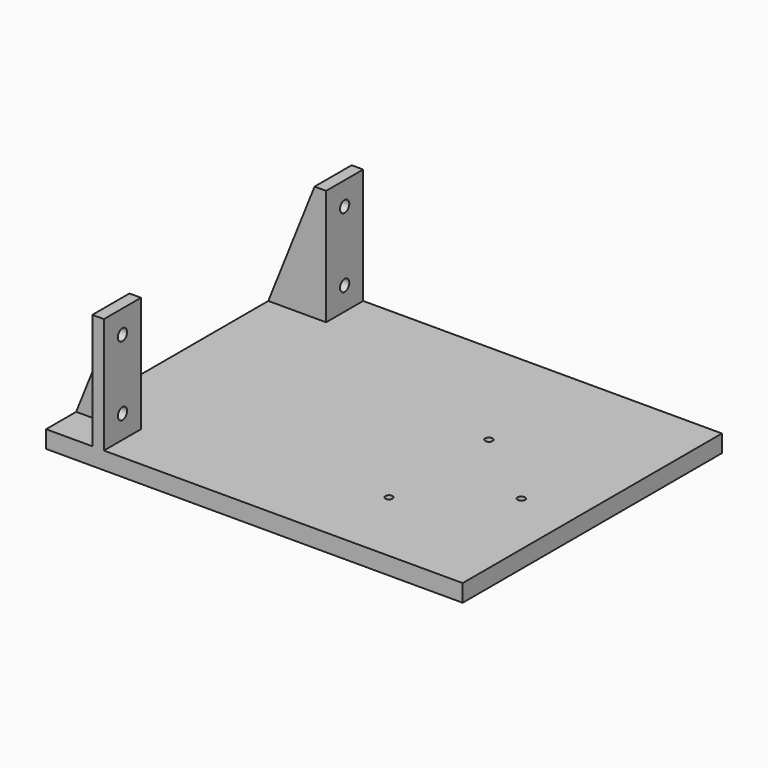
from build123d import *

# Parameters (mm, degrees)
SKETCH018_W          = 457.2
SKETCH018_H          = 355.6
PAD008_DEPTH         = 19.05
PAD009_DEPTH         = 127
POCKET010_DEPTH      = 177.801
POCKET010_DEPTH_BACK = -177.801
SKETCH021_R          = 6.35
POCKET009_DEPTH      = 63.501
SKETCH095_R          = 4
POCKET_DEPTH         = 19.051
POCKET_DEPTH_BACK    = -127.001


with BuildPart() as part:
    # Sketch018 → Pad008 (new body)
    with BuildSketch(Plane.XY):
        with Locations((165.1, 0)):
            Rectangle(SKETCH018_W, SKETCH018_H)
    extrude(amount=-PAD008_DEPTH)

    # Sketch019 → Pad009 (join)
    with BuildSketch(Plane.XY):
        Polygon((0, -127), (0, -177.8), (-12.7, -177.8), (-12.7, -136.525), (-63.5, -136.525), (-63.5, -127), align=None)
        Polygon((-12.7, 136.525), (-63.5, 136.525), (-63.5, 127), (0, 127), (0, 177.8), (-12.7, 177.8), align=None)
    extrude(amount=PAD009_DEPTH)

    # Sketch020 → Pocket010 (cut, two sides)
    with BuildSketch(Plane.XZ) as pocket010_sk:
        Polygon((-63.5, 0), (-12.7, 127), (-63.5, 127), align=None)
    extrude(amount=-POCKET010_DEPTH, mode=Mode.SUBTRACT)
    extrude(pocket010_sk.sketch, amount=-POCKET010_DEPTH_BACK, mode=Mode.SUBTRACT)

    # Sketch021 → Pocket009 (cut, through all)
    with BuildSketch(Plane.YZ):
        with Locations((-152.4, 101.6)):
            Circle(SKETCH021_R)
        with Locations((-152.4, 25.4)):
            Circle(SKETCH021_R)
        with Locations((152.4, 101.6)):
            Circle(SKETCH021_R)
        with Locations((152.4, 25.4)):
            Circle(SKETCH021_R)
    extrude(amount=-POCKET009_DEPTH, mode=Mode.SUBTRACT)

    # Sketch095 → Pocket (cut, two sides)
    with BuildSketch(Plane.XY) as pocket_sk:
        with Locations((245, 44)):
            Circle(SKETCH095_R)
        with Locations((335, -24)):
            Circle(SKETCH095_R)
        with Locations((245, -93)):
            Circle(SKETCH095_R)
    extrude(amount=-POCKET_DEPTH, mode=Mode.SUBTRACT)
    extrude(pocket_sk.sketch, amount=-POCKET_DEPTH_BACK, mode=Mode.SUBTRACT)


solid = part.part
